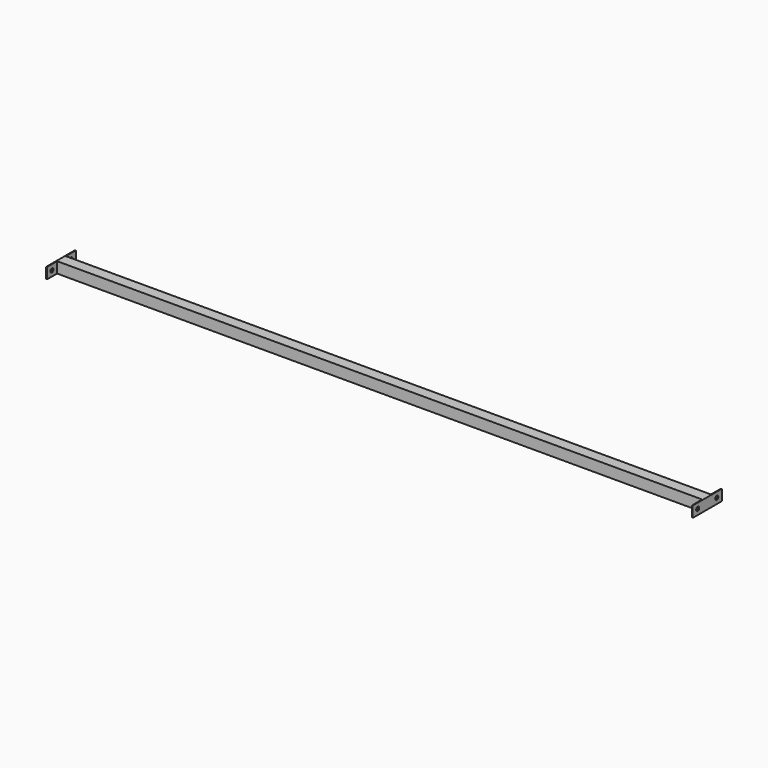
from build123d import *

# Parameters (mm, degrees)
F0_W     = 25.4
F0_H     = 25.4
F1_DEPTH = 750
F2_T     = -2
F3_R     = 4.5
F4_DEPTH = 1.6
F5_R     = 4.5
F6_DEPTH = 1.6


with BuildPart() as f1:
    # F0 (on Right) → F1 (new body, symmetric)
    with BuildSketch(Plane.YZ):
        Rectangle(F0_W, F0_H)
    extrude(amount=F1_DEPTH, both=True)

    # F2
    f2_openings = [f1.faces().sort_by_distance(p)[0] for p in [
        (750, 0, 0),
        (-750, 0, 0),
    ]]
    offset(amount=F2_T, openings=f2_openings)

    # F3 (on face) → F4 (join)
    with BuildSketch(Plane.YZ.offset(750)):
        with BuildLine():
            ThreePointArc((42.7, 10.7), (42.114214, 12.114214), (40.7, 12.7))
            Line((40.7, 12.7), (-40.7, 12.7))
            ThreePointArc((-40.7, 12.7), (-42.114214, 12.114214), (-42.7, 10.7))
            Line((-42.7, 10.7), (-42.7, -10.7))
            ThreePointArc((-42.7, -10.7), (-42.114214, -12.114214), (-40.7, -12.7))
            Line((-40.7, -12.7), (40.7, -12.7))
            ThreePointArc((40.7, -12.7), (42.114214, -12.114214), (42.7, -10.7))
            Line((42.7, -10.7), (42.7, 10.7))
        make_face()
        with Locations((-27.7, 0)):
            Circle(F3_R, mode=Mode.SUBTRACT)
        with Locations((27.7, 0)):
            Circle(F3_R, mode=Mode.SUBTRACT)
    extrude(amount=F4_DEPTH)

    # F5 (on face) → F6 (join)
    with BuildSketch(Plane(origin=(-750, 0, 0), x_dir=(0, -1, 0), z_dir=(-1, 0, 0))):
        with BuildLine():
            Line((-12.7, 12.7), (-40.7, 12.7))
            ThreePointArc((-40.7, 12.7), (-42.114214, 12.114214), (-42.7, 10.7))
            Line((-42.7, 10.7), (-42.7, -10.7))
            ThreePointArc((-42.7, -10.7), (-42.114214, -12.114214), (-40.7, -12.7))
            Line((-40.7, -12.7), (-12.7, -12.7))
            Line((-12.7, -12.7), (-12.7, 12.7))
        make_face()
        with Locations((-27.7, 0)):
            Circle(F5_R, mode=Mode.SUBTRACT)
        with BuildLine():
            Line((12.7, 12.7), (-12.7, 12.7))
            Line((-12.7, 12.7), (-12.7, -12.7))
            Line((-12.7, -12.7), (12.7, -12.7))
            Line((12.7, -12.7), (40.7, -12.7))
            ThreePointArc((40.7, -12.7), (42.114214, -12.114214), (42.7, -10.7))
            Line((42.7, -10.7), (42.7, 10.7))
            ThreePointArc((42.7, 10.7), (42.114214, 12.114214), (40.7, 12.7))
            Line((40.7, 12.7), (12.7, 12.7))
        make_face()
        with Locations((27.7, 0)):
            Circle(F5_R, mode=Mode.SUBTRACT)
    extrude(amount=F6_DEPTH)


solid = f1.part
